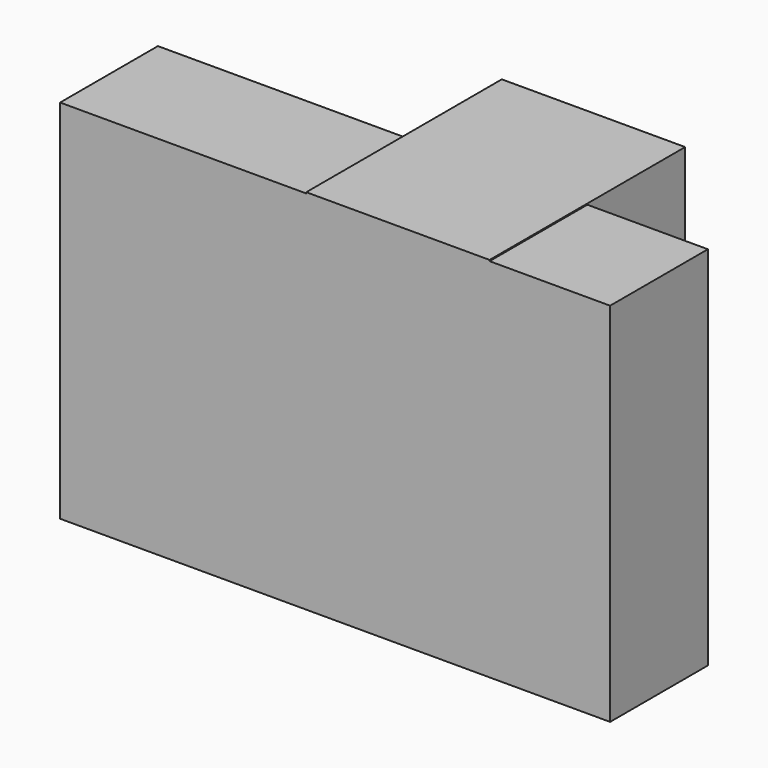
from build123d import *

# Parameters (mm, degrees)
F0_W     = 228.6
F0_H     = 152.297022
F1_DEPTH = 50.8
F3_DEPTH = 50.8


with BuildPart() as f1:
    # F0 (on Front) → F1 (new body)
    with BuildSketch(Plane.XZ):
        with Locations((-3.682856, -7.733995)):
            Rectangle(F0_W, F0_H)
    extrude(amount=F1_DEPTH)

    # F2 (on Front) → F3 (join, symmetric)
    with BuildSketch(Plane.XZ):
        Polygon((-15.677309, -7.330912), (-117.277309, -7.330912), (-117.277309, -83.527267), (60.522691, -83.527267), (60.522691, 68.872733), (-15.677309, 68.872733), align=None)
    extrude(amount=F3_DEPTH, both=True)


solid = f1.part
